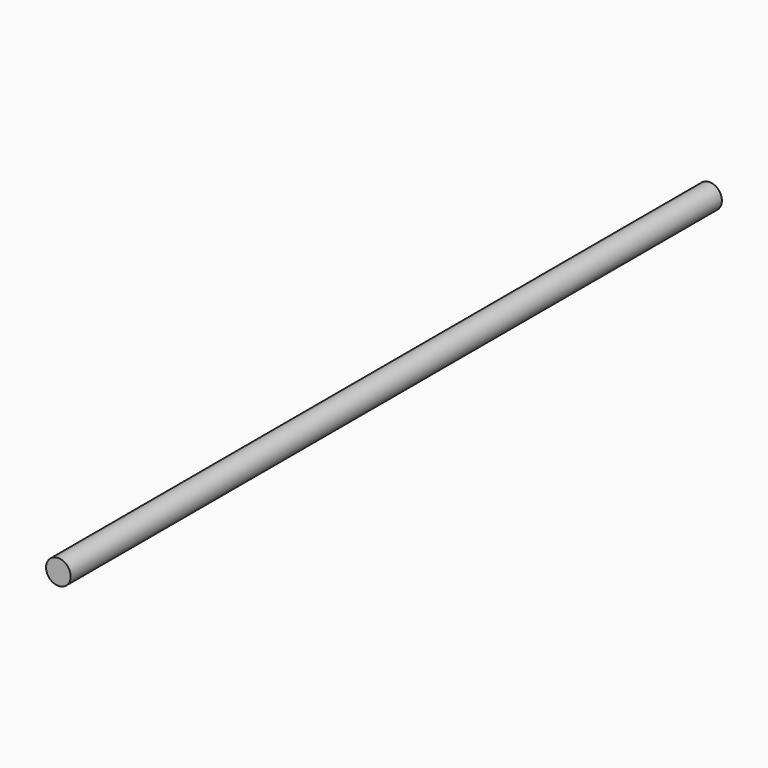
from build123d import *

# Parameters (mm, degrees)
SKETCH_R  = 4
PAD_DEPTH = 265


with BuildPart() as part:
    # Sketch → Pad (new body)
    with BuildSketch(Plane.XZ):
        Circle(SKETCH_R)
    extrude(amount=PAD_DEPTH)


solid = part.part
